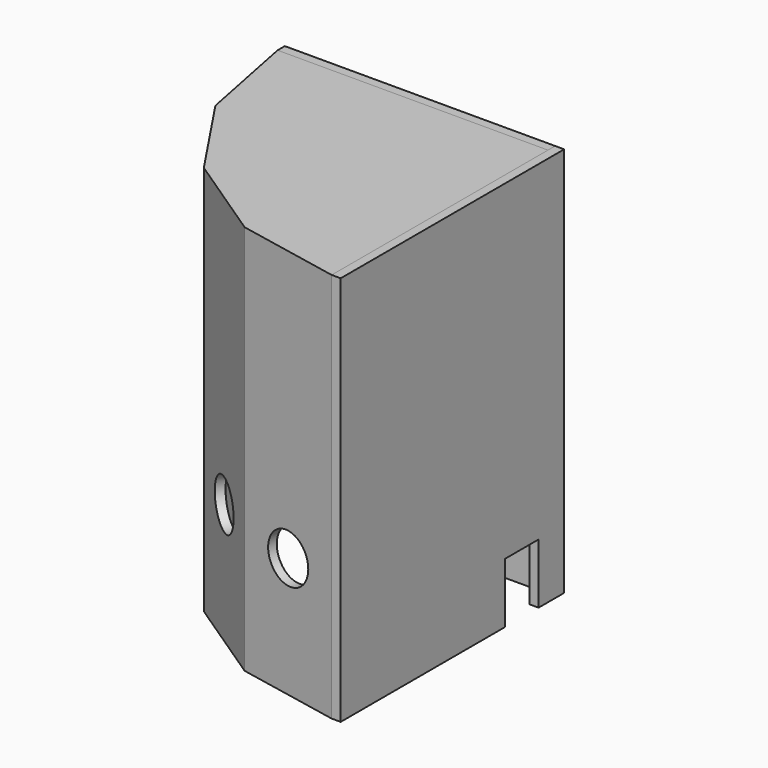
from build123d import *

# Parameters (mm, degrees)
BOX002_W        = 90
BOX002_H        = 3
BOX002_DEPTH    = 130
BOX001_W        = 90
BOX001_H        = 90
BOX001_DEPTH    = 130
BOX_W           = 90
BOX_H           = 180
BOX_DEPTH       = 130
PRISM001_DEPTH  = 127
PRISM_DEPTH     = 130
SKETCH001_R     = 8.1
POCKET_DEPTH    = 3
SKETCH002_R     = 8.1
POCKET001_DEPTH = 3
SKETCH003_R     = 8.1
POCKET002_DEPTH = 3
SKETCH004_R     = 8.1
POCKET003_DEPTH = 3
BOX003_W        = 3
BOX003_H        = 93
BOX003_DEPTH    = 130
SKETCH005_W     = 14
SKETCH005_H     = 20
POCKET004_DEPTH = 3


with BuildPart() as cubo002:
    # Box002 → Box002 (new body)
    with BuildSketch(Plane(origin=(-90, 0, 0), x_dir=(1, 0, 0), z_dir=(0, 0, 1))):
        with Locations((45, 1.5)):
            Rectangle(BOX002_W, BOX002_H)
    extrude(amount=BOX002_DEPTH)


with BuildPart() as cubo001:
    # Box001 → Box001 (new body)
    with BuildSketch(Plane(origin=(-90, 0, 0), x_dir=(1, 0, 0), z_dir=(0, 0, 1))):
        with Locations((45, 45)):
            Rectangle(BOX001_W, BOX001_H)
    extrude(amount=BOX001_DEPTH)


with BuildPart() as cubo:
    # Box → Box (new body)
    with BuildSketch(Plane(origin=(0, -90, 0), x_dir=(1, 0, 0), z_dir=(0, 0, 1))):
        with Locations((45, 90)):
            Rectangle(BOX_W, BOX_H)
    extrude(amount=BOX_DEPTH)


with BuildPart() as prisma001:
    # Prism001 → Prism001 (new body)
    with BuildSketch(Plane.XY):
        Polygon((87, 0), (80.3775193285, 33.2934586158), (61.5182899632, 61.5182899632), (33.2934586158, 80.3775193285), (0, 87), (-33.2934586158, 80.3775193285), (-61.5182899632, 61.5182899632), (-80.3775193285, 33.2934586158), (-87, 0), (-80.3775193285, -33.2934586158), (-61.5182899632, -61.5182899632), (-33.2934586158, -80.3775193285), (0, -87), (33.2934586158, -80.3775193285), (61.5182899632, -61.5182899632), (80.3775193285, -33.2934586158), align=None)
    extrude(amount=PRISM001_DEPTH)


with BuildPart() as pocket003:
    # Prism → Prism (new body)
    with BuildSketch(Plane.XY):
        Polygon((90, 0), (83.149157926, 34.4415089129), (63.6396103068, 63.6396103068), (34.4415089129, 83.149157926), (0, 90), (-34.4415089129, 83.149157926), (-63.6396103068, 63.6396103068), (-83.149157926, 34.4415089129), (-90, 0), (-83.149157926, -34.4415089129), (-63.6396103068, -63.6396103068), (-34.4415089129, -83.149157926), (0, -90), (34.4415089129, -83.149157926), (63.6396103068, -63.6396103068), (83.149157926, -34.4415089129), align=None)
    extrude(amount=PRISM_DEPTH)

    # Cut: cut Prisma001
    add(prisma001.part, mode=Mode.SUBTRACT)

    # Cut001: cut Cubo
    add(cubo.part, mode=Mode.SUBTRACT)

    # Cut002: cut Cubo001
    add(cubo001.part, mode=Mode.SUBTRACT)

    # Sketch001 → Pocket (cut)
    with BuildSketch(Plane(origin=(-86.574578963, -17.2207544564, 0), x_dir=(0.195090322, -0.9807852804, 0), z_dir=(-0.9807852804, -0.195090322, 0))):
        with Locations((-0.087106, 40)):
            Circle(SKETCH001_R)
    extrude(amount=-POCKET_DEPTH, mode=Mode.SUBTRACT)

    # Sketch002 → Pocket001 (cut)
    with BuildSketch(Plane(origin=(-73.3943841164, -49.0405596098, 0), x_dir=(0.555570233, -0.8314696123, 0), z_dir=(-0.8314696123, -0.555570233, 0))):
        with Locations((-0.050397, 40)):
            Circle(SKETCH002_R)
    extrude(amount=-POCKET001_DEPTH, mode=Mode.SUBTRACT)

    # Sketch003 → Pocket002 (cut)
    with BuildSketch(Plane(origin=(-49.0405596098, -73.3943841164, 0), x_dir=(0.8314696123, -0.555570233, 0), z_dir=(-0.555570233, -0.8314696123, 0))):
        with Locations((-0.05246, 40)):
            Circle(SKETCH003_R)
    extrude(amount=-POCKET002_DEPTH, mode=Mode.SUBTRACT)

    # Sketch004 → Pocket003 (cut)
    with BuildSketch(Plane(origin=(-17.2207544564, -86.574578963, 0), x_dir=(0.9807852804, -0.195090322, 0), z_dir=(-0.195090322, -0.9807852804, 0))):
        with Locations((0.018064, 40)):
            Circle(SKETCH004_R)
    extrude(amount=-POCKET003_DEPTH, mode=Mode.SUBTRACT)


with BuildPart() as pocket004:
    # Box003 → Box003 (new body)
    with BuildSketch(Plane(origin=(0, -90, 0), x_dir=(1, 0, 0), z_dir=(0, 0, 1))):
        with Locations((1.5, 46.5)):
            Rectangle(BOX003_W, BOX003_H)
    extrude(amount=BOX003_DEPTH)

    # Sketch005 → Pocket004 (cut)
    with BuildSketch(Plane(origin=(3, -90, 0), x_dir=(0, 1, 0), z_dir=(1, 0, 0))):
        with Locations((75.3541223238, 10)):
            Rectangle(SKETCH005_W, SKETCH005_H)
    extrude(amount=-POCKET004_DEPTH, mode=Mode.SUBTRACT)


solid = Compound([cubo002.part, pocket003.part, pocket004.part])
